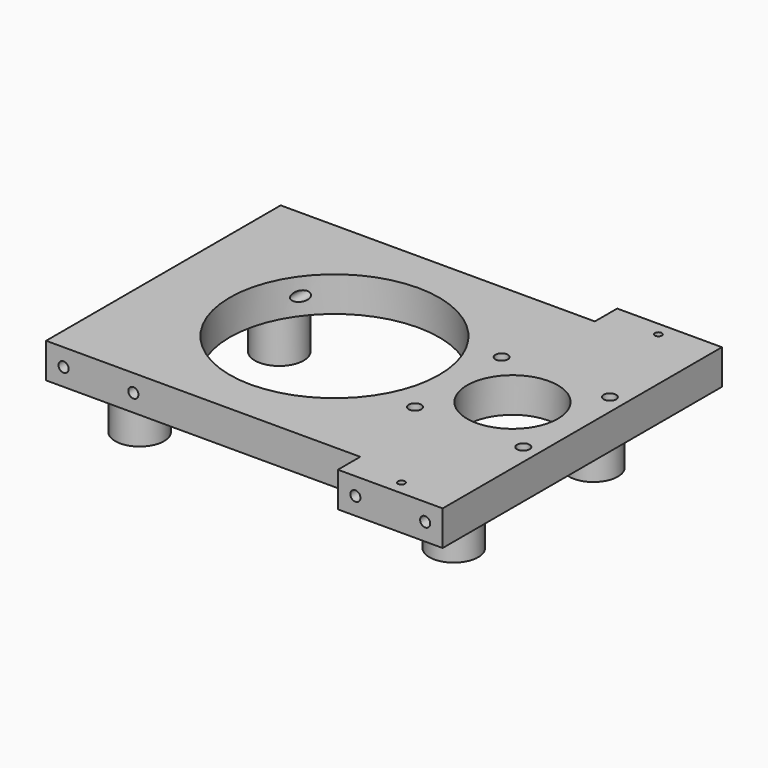
from build123d import *

# Parameters (mm, degrees)
CYLINDER023_R       = 1.8
CYLINDER023_DEPTH   = 20
ARRAY001003_X_COUNT = 2
ARRAY001003_X_PITCH = 31
ARRAY001003_Y_COUNT = 2
ARRAY001003_Y_PITCH = 31
CYLINDER020_R       = 13
CYLINDER020_DEPTH   = 30
CYLINDER024_R       = 30
CYLINDER024_DEPTH   = 30
CYLINDER039_R       = 1.45
CYLINDER039_DEPTH   = 40
ARRAY001020_X_COUNT = 2
ARRAY001020_X_PITCH = 20
ARRAY001021_X_COUNT = 2
ARRAY001021_X_PITCH = 90
CYLINDER041_R       = 1
CYLINDER041_DEPTH   = 10
ARRAY001023_Y_COUNT = 2
ARRAY001023_Y_PITCH = 92
CYLINDER022_R       = 4.1
CYLINDER022_DEPTH   = 24
ARRAY001002_X_COUNT = 2
ARRAY001002_X_PITCH = 90
ARRAY001002_Y_COUNT = 2
ARRAY001002_Y_PITCH = 50
CYLINDER025_R       = 7
CYLINDER025_DEPTH   = 25
ARRAY001004_X_COUNT = 2
ARRAY001004_X_PITCH = 90
ARRAY001004_Y_COUNT = 2
ARRAY001004_Y_PITCH = 50
BOX020_W            = 30
BOX020_H            = 100
BOX020_DEPTH        = 10
BOX002_W            = 120
BOX002_H            = 84
BOX002_DEPTH        = 10


with BuildPart() as motor_attachment_hole_array:
    # Cylinder023 → Cylinder023 (new body)
    with BuildSketch(Plane(origin=(84.5, 24.5, 0), x_dir=(1, 0, 0), z_dir=(0, 0, 1))):
        Circle(CYLINDER023_R)
    extrude(amount=CYLINDER023_DEPTH)

    # Array001003 X: motor attachment hole array ×2


with BuildPart() as motor_attachment_hole_array_1:
    add(motor_attachment_hole_array.part)
    with Locations(*[(i * ARRAY001003_X_PITCH, 0, 0) for i in range(1, ARRAY001003_X_COUNT)]):
        add(motor_attachment_hole_array.part)

    # Array001003 Y: motor attachment hole array ×2


with BuildPart() as motor_attachment_hole_array_2:
    add(motor_attachment_hole_array_1.part)
    with Locations(*[(0, i * ARRAY001003_Y_PITCH, 0) for i in range(1, ARRAY001003_Y_COUNT)]):
        add(motor_attachment_hole_array_1.part)


with BuildPart() as motor_hole_set_fusion:
    # Cylinder020 → Cylinder020 (new body)
    with BuildSketch(Plane(origin=(100, 40, -5), x_dir=(1, 0, 0), z_dir=(0, 0, 1))):
        Circle(CYLINDER020_R)
    extrude(amount=CYLINDER020_DEPTH)

    # Fusion010: union motor attachment hole array
    add(motor_attachment_hole_array_2.part)


with BuildPart() as central_hole001:
    # Cylinder024 → Cylinder024 (new body)
    with BuildSketch(Plane(origin=(49, 40, 0), x_dir=(1, 0, 0), z_dir=(0, 0, 1))):
        Circle(CYLINDER024_R)
    extrude(amount=CYLINDER024_DEPTH)


with BuildPart() as side_connector_narrow_hole_array_array:
    # Cylinder039 → Cylinder039 (new body)
    with BuildSketch(Plane.XZ):
        Circle(CYLINDER039_R)
    extrude(amount=CYLINDER039_DEPTH)

    # Array001020 X: side connector narrow hole array array ×2


with BuildPart() as side_connector_narrow_hole_array_array_1:
    add(side_connector_narrow_hole_array_array.part)
    with Locations(*[(i * ARRAY001020_X_PITCH, 0, 0) for i in range(1, ARRAY001020_X_COUNT)]):
        add(side_connector_narrow_hole_array_array.part)


with BuildPart() as side_connector_narrow_hole_array_array_2:
    # Array001020 placement: moved
    add(side_connector_narrow_hole_array_array_1.part.moved(Location((5, 0, 5))))

    # Array001021 X: side connector narrow hole array array ×2


with BuildPart() as side_connector_narrow_hole_array_array_3:
    add(side_connector_narrow_hole_array_array_2.part)
    with Locations(*[(i * ARRAY001021_X_PITCH, 0, 0) for i in range(1, ARRAY001021_X_COUNT)]):
        add(side_connector_narrow_hole_array_array_2.part)


with BuildPart() as side_connector_narrow_hole_array_array_4:
    # Array001021 placement: moved
    add(side_connector_narrow_hole_array_array_3.part.moved(Location((0, 27, 0))))


with BuildPart() as body009:
    # Body009 base: copy of side connector narrow hole array array
    add(side_connector_narrow_hole_array_array_4.part)


with BuildPart() as body009_1:
    # Body009 placement: moved
    add(body009.part.moved(Location((0, 67, 0))))


with BuildPart() as body010:
    # Body010 base: copy of side connector narrow hole array array
    add(side_connector_narrow_hole_array_array_4.part)


with BuildPart() as pusher_hole_array001:
    # Cylinder041 → Cylinder041 (new body)
    with BuildSketch(Plane(origin=(105, 0, 0), x_dir=(1, 0, 0), z_dir=(0, 0, 1))):
        Circle(CYLINDER041_R)
    extrude(amount=CYLINDER041_DEPTH)

    # Array001023 Y: pusher hole array001 ×2


with BuildPart() as pusher_hole_array001_1:
    add(pusher_hole_array001.part)
    with Locations(*[(0, i * ARRAY001023_Y_PITCH, 0) for i in range(1, ARRAY001023_Y_COUNT)]):
        add(pusher_hole_array001.part)


with BuildPart() as pusher_hole_array001_2:
    # Array001023 placement: moved
    add(pusher_hole_array001_1.part.moved(Location((0, -6, 0))))


with BuildPart() as motor_side_hole_fusion:
    # Cylinder022 → Cylinder022 (new body)
    with BuildSketch(Plane(origin=(14, 14, -30), x_dir=(1, 0, 0), z_dir=(0, 0, 1))):
        Circle(CYLINDER022_R)
    extrude(amount=CYLINDER022_DEPTH)

    # Array001002 X: motor side hole fusion ×2


with BuildPart() as motor_side_hole_fusion_1:
    add(motor_side_hole_fusion.part)
    with Locations(*[(i * ARRAY001002_X_PITCH, 0, 0) for i in range(1, ARRAY001002_X_COUNT)]):
        add(motor_side_hole_fusion.part)

    # Array001002 Y: motor side hole fusion ×2


with BuildPart() as motor_side_hole_fusion_2:
    add(motor_side_hole_fusion_1.part)
    with Locations(*[(0, i * ARRAY001002_Y_PITCH, 0) for i in range(1, ARRAY001002_Y_COUNT)]):
        add(motor_side_hole_fusion_1.part)

    # Fusion009: union motor hole set fusion, central hole001, Body009, Body010, pusher hole array001
    add(motor_hole_set_fusion.part)
    add(central_hole001.part)
    add(body009_1.part)
    add(body010.part)
    add(pusher_hole_array001_2.part)


with BuildPart() as rod_spacer_array:
    # Cylinder025 → Cylinder025 (new body)
    with BuildSketch(Plane(origin=(14, 14, -15), x_dir=(1, 0, 0), z_dir=(0, 0, 1))):
        Circle(CYLINDER025_R)
    extrude(amount=CYLINDER025_DEPTH)

    # Array001004 X: rod spacer array ×2


with BuildPart() as rod_spacer_array_1:
    add(rod_spacer_array.part)
    with Locations(*[(i * ARRAY001004_X_PITCH, 0, 0) for i in range(1, ARRAY001004_X_COUNT)]):
        add(rod_spacer_array.part)

    # Array001004 Y: rod spacer array ×2


with BuildPart() as rod_spacer_array_2:
    add(rod_spacer_array_1.part)
    with Locations(*[(0, i * ARRAY001004_Y_PITCH, 0) for i in range(1, ARRAY001004_Y_COUNT)]):
        add(rod_spacer_array_1.part)


with BuildPart() as motor_side_cube_extension:
    # Box020 → Box020 (new body)
    with BuildSketch(Plane(origin=(90, -10, 0), x_dir=(1, 0, 0), z_dir=(0, 0, 1))):
        with Locations((15, 50)):
            Rectangle(BOX020_W, BOX020_H)
    extrude(amount=BOX020_DEPTH)


with BuildPart() as motor_side_cut:
    # Box002 → Box002 (new body)
    with BuildSketch(Plane(origin=(0, -2, 0), x_dir=(1, 0, 0), z_dir=(0, 0, 1))):
        with Locations((60, 42)):
            Rectangle(BOX002_W, BOX002_H)
    extrude(amount=BOX002_DEPTH)

    # Fusion011: union rod spacer array, motor side cube extension
    add(rod_spacer_array_2.part)
    add(motor_side_cube_extension.part)

    # Cut003: cut motor side hole fusion
    add(motor_side_hole_fusion_2.part, mode=Mode.SUBTRACT)


solid = motor_side_cut.part
